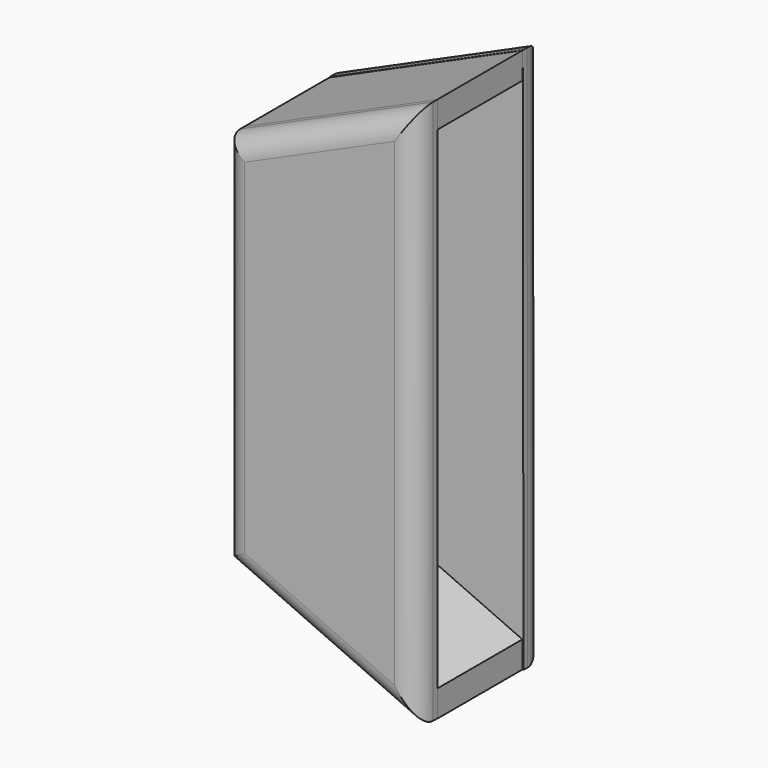
from build123d import *

# Parameters (mm, degrees)
F1_DEPTH = 25.4
F2_DEPTH = 25.4
F4_DEPTH = 6.35
F6_DEPTH = 6.35
F7_R     = 5.08
F8_R     = 5.08


with BuildPart() as f1:
    # F0 (on Front) → F1 (new body)
    with BuildSketch(Plane.XZ):
        Polygon((0, 82.55), (0, 76.2), (46.0375, 96.8375), (46.0375, 103.1875), align=None)
    extrude(amount=F1_DEPTH)


with BuildPart() as f2:
    # F0 (on Front) → F2 (new body)
    with BuildSketch(Plane.XZ):
        Polygon((46.0375, -20.6375), (0, 0), (0, -6.35), (46.0375, -26.9875), align=None)
    extrude(amount=F2_DEPTH)


with BuildPart() as f4:
    # F3 (on Front) → F4 (new body)
    with BuildSketch(Plane.XZ):
        Polygon((46.312772, -26.972834), (46.13008, 103.287548), (0, 82.643196), (0, -6.328482), align=None)
    extrude(amount=-F4_DEPTH)

    # F8
    f8_edges = [f4.edges().sort_by_distance(p)[0] for p in [
        (23.06504, 6.35, 92.965372),
        (23.156386, 6.35, -16.650658),
        (46.221426, 6.35, 38.157357),
        (0, 6.35, 38.157357),
    ]]
    fillet(f8_edges, radius=F8_R)


with BuildPart() as f6:
    # F5 (on face) → F6 (new body)
    with BuildSketch(Plane.XZ.offset(25.4)):
        Polygon((46.0375, 103.1875), (0, 82.55), (0, -6.230049), (46.0375, -26.92748), align=None)
    extrude(amount=F6_DEPTH)

    # F7
    f7_edges = [f6.edges().sort_by_distance(p)[0] for p in [
        (23.01875, -31.75, -16.578765),
        (46.0375, -31.75, 38.13001),
        (23.01875, -31.75, 92.86875),
        (0, -31.75, 38.159975),
    ]]
    fillet(f7_edges, radius=F7_R)


solid = Compound([f1.part, f2.part, f4.part, f6.part])
